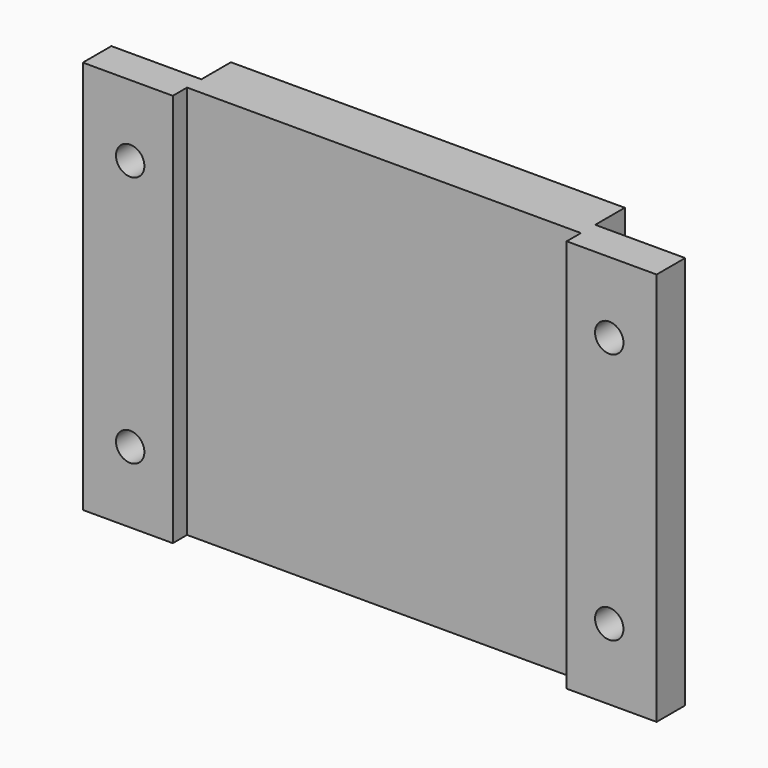
from build123d import *

# Parameters (mm, degrees)
F0_W     = 83.2
F0_H     = 83.2
F1_DEPTH = 11.58
F0_W_2   = 19
F0_R     = 3
F2_DEPTH = 3.77


with BuildPart() as f1:
    # F0 (on Front) → F1 (new body)
    with BuildSketch(Plane.XZ):
        with Locations((-41.6, 41.6)):
            Rectangle(F0_W, F0_H)
    extrude(amount=-F1_DEPTH)

    # F0 (on Front) → F2 (join, symmetric)
    with BuildSketch(Plane.XZ):
        with Locations((-92.7, 41.6)):
            Rectangle(F0_W_2, F0_H)
        with Locations((-92.2, 15)):
            Circle(F0_R, mode=Mode.SUBTRACT)
        with Locations((-92.2, 68.2)):
            Circle(F0_R, mode=Mode.SUBTRACT)
        with Locations((9.5, 41.6)):
            Rectangle(F0_W_2, F0_H)
        with Locations((9, 15)):
            Circle(F0_R, mode=Mode.SUBTRACT)
        with Locations((9, 68.2)):
            Circle(F0_R, mode=Mode.SUBTRACT)
    extrude(amount=F2_DEPTH, both=True)


solid = f1.part
